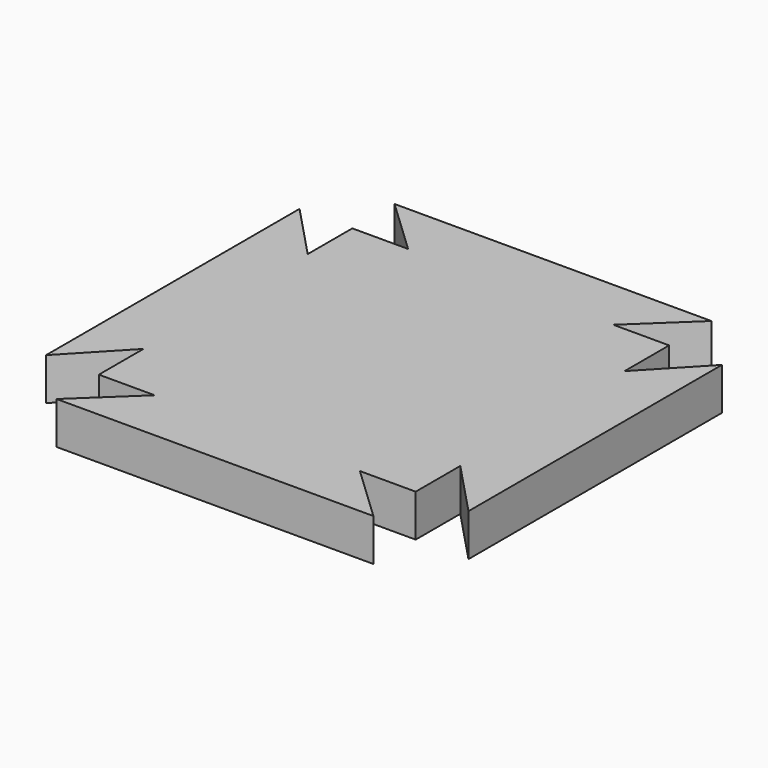
from build123d import *

# Parameters (mm, degrees)
F1_DEPTH = 2.54


with BuildPart() as f1:
    # F0 (on Top) → F1 (new body)
    with BuildSketch(Plane.XY):
        Polygon((-32.219911, 17.795706), (-35.572711, 17.795706), (-35.572711, 14.442906), (-35.572711, 2.098506), (-35.572711, -1.254294), (-32.219911, -1.254294), (-19.875511, -1.254294), (-16.522711, -1.254294), (-16.522711, 2.098506), (-16.522711, 14.442906), (-16.522711, 17.795706), (-19.875511, 17.795706), align=None)
        Polygon((-35.572711, 20.970706), (-32.219911, 17.795706), (-19.875511, 17.795706), (-16.522711, 20.970706), align=None)
        Polygon((-35.572711, 2.098506), (-35.572711, 14.442906), (-38.747711, 17.795706), (-38.747711, -1.254294), align=None)
        Polygon((-13.347711, 17.795706), (-16.522711, 14.442906), (-16.522711, 2.098506), (-13.347711, -1.254294), align=None)
        Polygon((-19.875511, -1.254294), (-32.219911, -1.254294), (-35.572711, -4.429294), (-16.522711, -4.429294), align=None)
    extrude(amount=F1_DEPTH)


solid = f1.part
